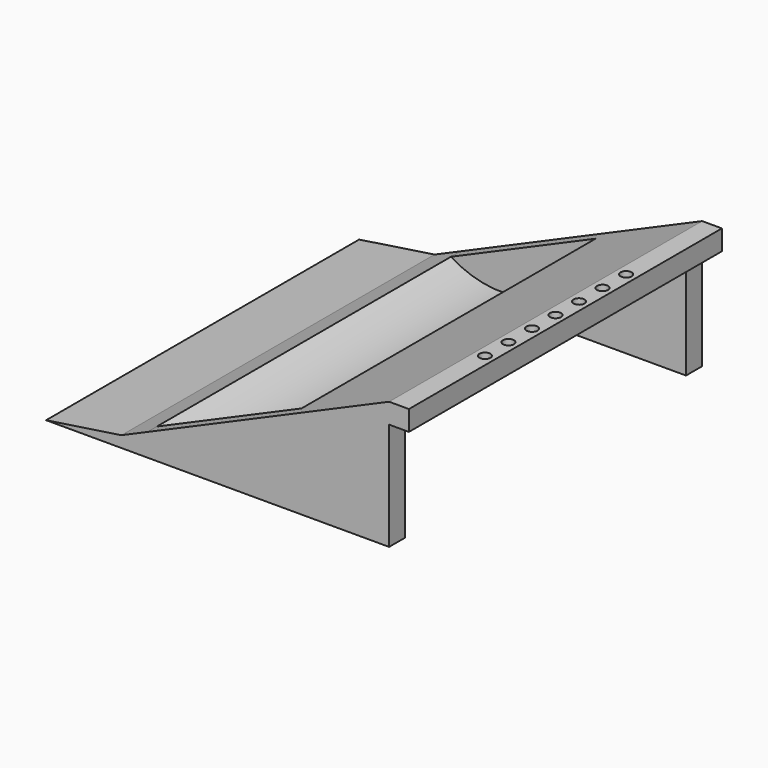
from build123d import *

# Parameters (mm, degrees)
F0_W      = 6.35
F0_H      = 6.477
F1_DEPTH  = 118.11
F2_R      = 1.778
F3_DEPTH  = 25.4
F4_W      = 46.721395
F4_H      = 2.667
F6_DEPTH  = 3.81
F8_DEPTH  = 3.81
F9_DEPTH  = 3.81
F11_DEPTH = 3.81


with BuildPart() as f1:
    # F0 (on Front) → F1 (new body)
    with BuildSketch(Plane.XZ):
        with BuildLine():
            Line((-71.0004344583, -17.2970571), (-23.3659426, -17.2970571))
            Line((-23.3659426, -17.2970571), (23.3659426, 17.2970571))
            Line((23.3659426, 17.2970571), (23.3659426, 23.7740571))
            Line((23.3659426, 23.7740571), (-7.8349318041, 10.194488659))
            ThreePointArc((-7.8349318041, 10.194488659), (-25.7599625829, -12.133990102), (-54.3163019367, -10.0356157532))
            Line((-54.3163019367, -10.0356157532), (-62.6583681975, -13.6663364266))
            Line((-62.6583681975, -13.6663364266), (-86.8754344583, -17.2970571))
            Line((-86.8754344583, -17.2970571), (-71.0004344583, -17.2970571))
        make_face()
        with Locations((26.5409426, 20.5355571)):
            Rectangle(F0_W, F0_H)
    extrude(amount=F1_DEPTH)

    # F2 (on face) → F3 (cut)
    with BuildSketch(Plane.XY.offset(23.7740571)):
        with Locations((26.5409426, -59.055)):
            Circle(F2_R)
        with Locations((26.5409426, -49.6062)):
            Circle(F2_R)
        with Locations((26.5409426, -40.1574)):
            Circle(F2_R)
        with Locations((26.5409426, -68.5038)):
            Circle(F2_R)
        with Locations((26.5409426, -77.9526)):
            Circle(F2_R)
        with Locations((26.5409426, -30.7086)):
            Circle(F2_R)
        with Locations((26.5409426, -87.4014)):
            Circle(F2_R)
    extrude(amount=-F3_DEPTH, mode=Mode.SUBTRACT)

    # F4 (on face) → F5 (join, up to the next surface of F1)
    with BuildSketch(Plane(origin=(0, 0, -17.2970571), x_dir=(1, 0, 0), z_dir=(0, 0, -1))):
        with Locations((-0.0052451, 116.7765)):
            Rectangle(F4_W, F4_H)
        with Locations((-0.0052451, 1.3335)):
            Rectangle(F4_W, F4_H)
    extrude(until=Until.NEXT, dir=(0, 0, 1))

    # F6 (add): a face of the model
    f6_faces = [f1.faces().sort_by_distance(p)[0] for p in [
        (-1.9615853711, -118.11, -2.7916369403),
    ]]
    extrude(f6_faces, amount=F6_DEPTH)

    # F7 (on face) → F8 (join)
    with BuildSketch(Plane.XZ.offset(121.92)):
        with BuildLine():
            Line((-7.8349318041, 10.194488659), (-54.3163019367, -10.0356157532))
            ThreePointArc((-54.3163019367, -10.0356157532), (-25.7599625829, -12.133990102), (-7.8349318041, 10.194488659))
        make_face()
    extrude(amount=-F8_DEPTH)

    # F9 (add): a face of the model
    f9_faces = [f1.faces().sort_by_distance(p)[0] for p in [
        (-1.9615853711, 0, -2.7916369403),
    ]]
    extrude(f9_faces, amount=F9_DEPTH)

    # F10 (on face) → F11 (join)
    with BuildSketch(Plane(origin=(0, 3.81, 0), x_dir=(-1, 0, 0), z_dir=(0, 1, 0))):
        with BuildLine():
            Line((54.3163019367, -10.0356157532), (7.8349318041, 10.194488659))
            ThreePointArc((7.8349318041, 10.194488659), (25.7599625829, -12.133990102), (54.3163019367, -10.0356157532))
        make_face()
    extrude(amount=-F11_DEPTH)


solid = f1.part
